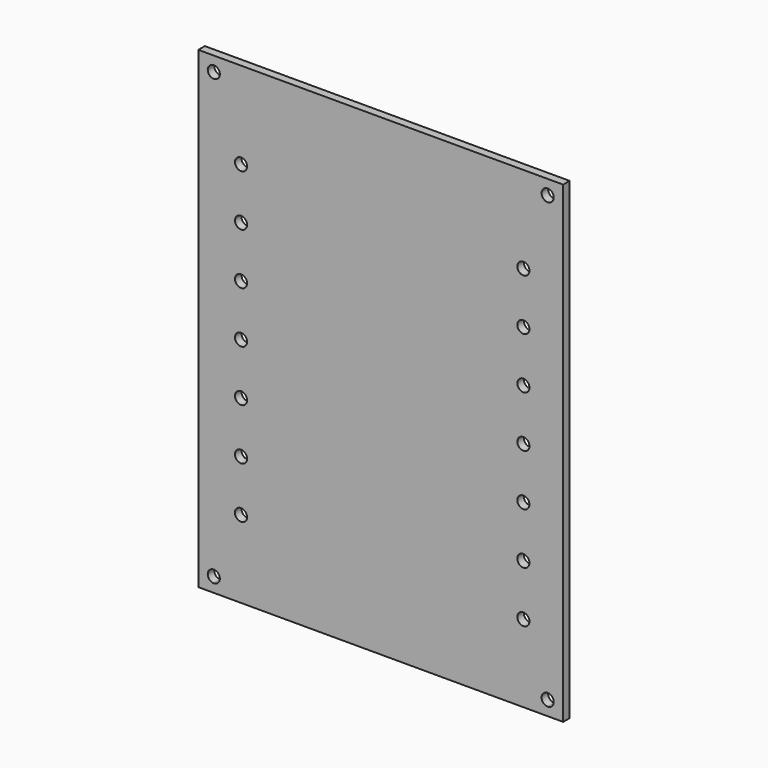
from build123d import *

# Parameters (mm, degrees)
F0_R     = 1.8923
F1_DEPTH = 2.54


with BuildPart() as f1:
    # F0 (on Front) → F1 (new body)
    with BuildSketch(Plane.XZ):
        with BuildLine():
            Line((0, 4.5212), (0, 0))
            Line((0, 0), (4.826, 0))
            Line((4.826, 0), (4.826, 2.6289))
            ThreePointArc((4.826, 2.6289), (3.487941838, 3.183141838), (2.9337, 4.5212))
            Line((2.9337, 4.5212), (0, 4.5212))
        make_face()
        with BuildLine():
            Line((4.826, 2.6289), (4.826, 0))
            Line((4.826, 0), (108.9914, 0))
            Line((108.9914, 0), (108.9914, 2.6289))
            ThreePointArc((108.9914, 2.6289), (107.653341838, 5.859258162), (110.8837, 4.5212))
            Line((110.8837, 4.5212), (113.8174, 4.5212))
            Line((113.8174, 4.5212), (113.8174, 143.0528))
            Line((113.8174, 143.0528), (110.8837, 143.0528))
            ThreePointArc((110.8837, 143.0528), (107.653341838, 141.714741838), (108.9914, 144.9451))
            Line((108.9914, 144.9451), (108.9914, 147.574))
            Line((108.9914, 147.574), (4.826, 147.574))
            Line((4.826, 147.574), (4.826, 144.9451))
            ThreePointArc((4.826, 144.9451), (6.164058162, 144.390858162), (6.7183, 143.0528))
            ThreePointArc((6.7183, 143.0528), (4.826, 141.1605), (2.9337, 143.0528))
            Line((2.9337, 143.0528), (0, 143.0528))
            Line((0, 143.0528), (0, 4.5212))
            Line((0, 4.5212), (2.9337, 4.5212))
            ThreePointArc((2.9337, 4.5212), (4.826, 6.4135), (6.7183, 4.5212))
            ThreePointArc((6.7183, 4.5212), (6.164058162, 3.183141838), (4.826, 2.6289))
        make_face()
        with Locations((13.3223, 24.1681)):
            Circle(F0_R, mode=Mode.SUBTRACT)
        with Locations((13.3223, 40.2209)):
            Circle(F0_R, mode=Mode.SUBTRACT)
        with Locations((13.3223, 56.2737)):
            Circle(F0_R, mode=Mode.SUBTRACT)
        with Locations((13.3223, 72.3265)):
            Circle(F0_R, mode=Mode.SUBTRACT)
        with BuildLine():
            ThreePointArc((103.3018, 24.1681), (101.4095, 22.2758), (99.5172, 24.1681))
            ThreePointArc((99.5172, 24.1681), (101.4095, 26.0604), (103.3018, 24.1681))
        make_face(mode=Mode.SUBTRACT)
        with Locations((101.4095, 40.2209)):
            Circle(F0_R, mode=Mode.SUBTRACT)
        with Locations((101.4095, 56.2737)):
            Circle(F0_R, mode=Mode.SUBTRACT)
        with Locations((101.4095, 72.3265)):
            Circle(F0_R, mode=Mode.SUBTRACT)
        with Locations((13.3223, 88.3793)):
            Circle(F0_R, mode=Mode.SUBTRACT)
        with Locations((13.3223, 104.4321)):
            Circle(F0_R, mode=Mode.SUBTRACT)
        with Locations((13.3223, 120.4849)):
            Circle(F0_R, mode=Mode.SUBTRACT)
        with Locations((101.4095, 88.3793)):
            Circle(F0_R, mode=Mode.SUBTRACT)
        with Locations((101.4095, 104.4321)):
            Circle(F0_R, mode=Mode.SUBTRACT)
        with Locations((101.4095, 120.4849)):
            Circle(F0_R, mode=Mode.SUBTRACT)
        with BuildLine():
            Line((108.9914, 2.6289), (108.9914, 0))
            Line((108.9914, 0), (113.8174, 0))
            Line((113.8174, 0), (113.8174, 4.5212))
            Line((113.8174, 4.5212), (110.8837, 4.5212))
            ThreePointArc((110.8837, 4.5212), (110.329458162, 3.183141838), (108.9914, 2.6289))
        make_face()
        with BuildLine():
            Line((0, 147.574), (0, 143.0528))
            Line((0, 143.0528), (2.9337, 143.0528))
            ThreePointArc((2.9337, 143.0528), (3.487941838, 144.390858162), (4.826, 144.9451))
            Line((4.826, 144.9451), (4.826, 147.574))
            Line((4.826, 147.574), (0, 147.574))
        make_face()
        with BuildLine():
            Line((110.8837, 143.0528), (113.8174, 143.0528))
            Line((113.8174, 143.0528), (113.8174, 147.574))
            Line((113.8174, 147.574), (108.9914, 147.574))
            Line((108.9914, 147.574), (108.9914, 144.9451))
            ThreePointArc((108.9914, 144.9451), (110.329458162, 144.390858162), (110.8837, 143.0528))
        make_face()
    extrude(amount=F1_DEPTH)


solid = f1.part
